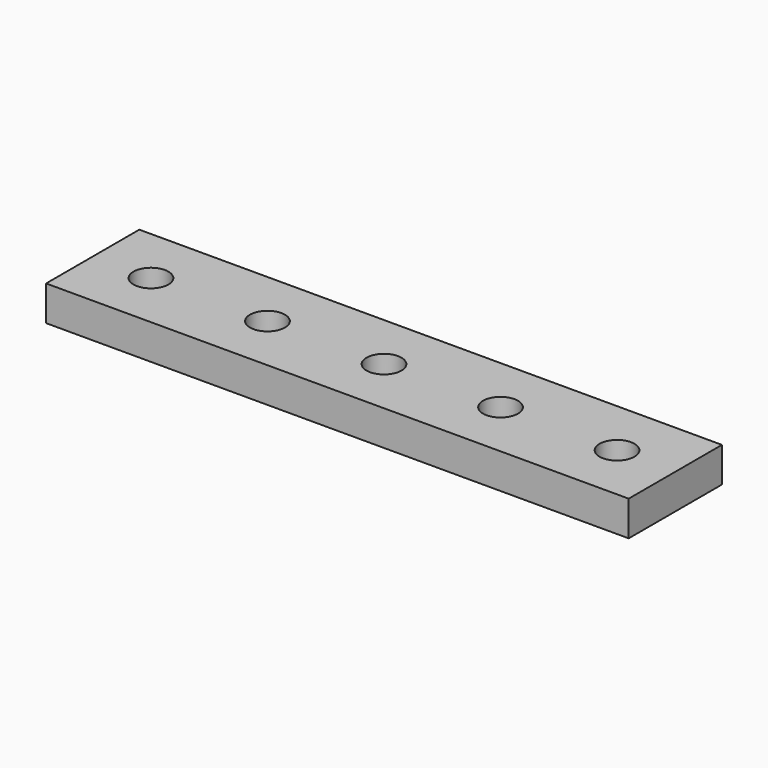
from build123d import *

# Parameters (mm, degrees)
CYLINDER004_R     = 1.5
CYLINDER004_DEPTH = 10
CYLINDER003_R     = 1.5
CYLINDER003_DEPTH = 10
CYLINDER002_R     = 1.5
CYLINDER002_DEPTH = 10
CYLINDER001_R     = 1.5
CYLINDER001_DEPTH = 10
CYLINDER_R        = 1.5
CYLINDER_DEPTH    = 10
BOX_W             = 50
BOX_H             = 10
BOX_DEPTH         = 3


with BuildPart() as cilindro004:
    # Cylinder004 → Cylinder004 (new body)
    with BuildSketch(Plane(origin=(45, 5, -1), x_dir=(1, 0, 0), z_dir=(0, 0, 1))):
        Circle(CYLINDER004_R)
    extrude(amount=CYLINDER004_DEPTH)


with BuildPart() as cilindro003:
    # Cylinder003 → Cylinder003 (new body)
    with BuildSketch(Plane(origin=(35, 5, -1), x_dir=(1, 0, 0), z_dir=(0, 0, 1))):
        Circle(CYLINDER003_R)
    extrude(amount=CYLINDER003_DEPTH)


with BuildPart() as cilindro002:
    # Cylinder002 → Cylinder002 (new body)
    with BuildSketch(Plane(origin=(25, 5, -1), x_dir=(1, 0, 0), z_dir=(0, 0, 1))):
        Circle(CYLINDER002_R)
    extrude(amount=CYLINDER002_DEPTH)


with BuildPart() as cilindro001:
    # Cylinder001 → Cylinder001 (new body)
    with BuildSketch(Plane(origin=(15, 5, -1), x_dir=(1, 0, 0), z_dir=(0, 0, 1))):
        Circle(CYLINDER001_R)
    extrude(amount=CYLINDER001_DEPTH)


with BuildPart() as cilindro:
    # Cylinder → Cylinder (new body)
    with BuildSketch(Plane(origin=(5, 5, -1), x_dir=(1, 0, 0), z_dir=(0, 0, 1))):
        Circle(CYLINDER_R)
    extrude(amount=CYLINDER_DEPTH)


with BuildPart() as cut004:
    # Box → Box (new body)
    with BuildSketch(Plane.XY):
        with Locations((25, 5)):
            Rectangle(BOX_W, BOX_H)
    extrude(amount=BOX_DEPTH)

    # Cut: cut Cilindro
    add(cilindro.part, mode=Mode.SUBTRACT)

    # Cut001: cut Cilindro001
    add(cilindro001.part, mode=Mode.SUBTRACT)

    # Cut002: cut Cilindro002
    add(cilindro002.part, mode=Mode.SUBTRACT)

    # Cut003: cut Cilindro003
    add(cilindro003.part, mode=Mode.SUBTRACT)

    # Cut004: cut Cilindro004
    add(cilindro004.part, mode=Mode.SUBTRACT)


solid = cut004.part
